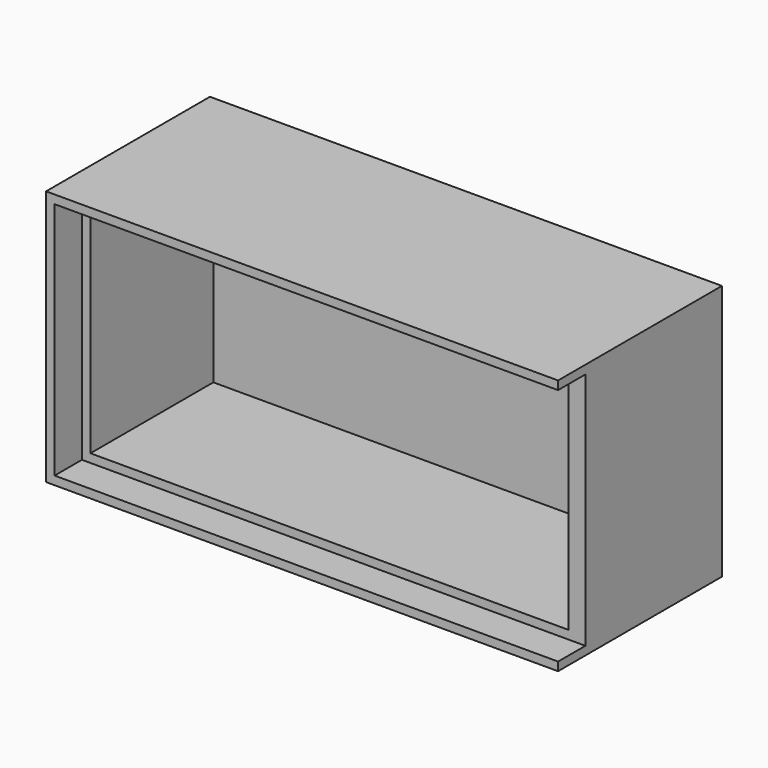
from build123d import *

# Parameters (mm, degrees)
F0_W     = 76.2
F0_H     = 38.1
F1_DEPTH = 25.4
F2_T     = -2.54
F4_DEPTH = 5.08


with BuildPart() as f1:
    # F0 (on Front) → F1 (new body)
    with BuildSketch(Plane.XZ):
        with Locations((38.1, 19.05)):
            Rectangle(F0_W, F0_H)
    extrude(amount=F1_DEPTH)

    # F2
    f2_openings = [f1.faces().sort_by_distance(p)[0] for p in [
        (38.1, -25.4, 19.05),
    ]]
    offset(amount=F2_T, openings=f2_openings)

    # F3 (on face) → F4 (join)
    with BuildSketch(Plane.XZ.offset(25.4)):
        Polygon((1.27, 36.83), (76.2, 36.83), (76.2, 38.1), (0, 38.1), (0, 0), (76.2, 0), (76.2, 1.27), (1.27, 1.27), align=None)
    extrude(amount=F4_DEPTH)


solid = f1.part
